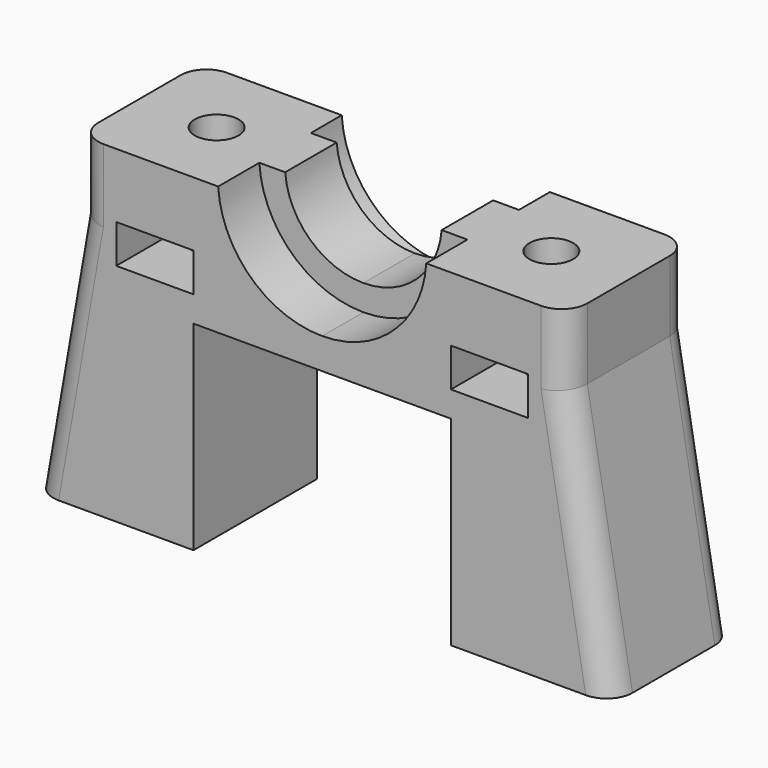
from build123d import *

# Parameters (mm, degrees)
F0_W          = 6
F0_H          = 3
F1_DEPTH      = 6
F2_DEPTH      = 2
F2_DEPTH_BACK = 3
F3_R          = 1.7
F4_DEPTH      = 4.8
F5_R          = 2
F6_R          = 1.7
F7_DEPTH      = 3


with BuildPart() as f1:
    # F0 (on Front) → F1 (new body, symmetric)
    with BuildSketch(Plane.XZ):
        with BuildLine():
            Line((10, 0), (22.5, 0))
            Line((22.5, 0), (18.9995524919, 20.0000000164))
            Line((18.9995524919, 20.0000000164), (18.9995524919, 25.5000000164))
            Line((18.9995524919, 25.5000000164), (8.0836130781, 25.5000000164))
            ThreePointArc((8.0836130781, 25.5000000164), (5.5476302699, 20.0983556377), (0, 17.8999996185))
            Line((0, 17.8999996185), (0, 15.5))
            Line((0, 15.5), (10, 15.5))
            Line((10, 15.5), (10, 0))
        make_face()
        with Locations((12.9995524922, 19.0000000164)):
            Rectangle(F0_W, F0_H, mode=Mode.SUBTRACT)
    extrude(amount=F1_DEPTH, both=True)

    # F0 (on Front) → F2 (join, two sides)
    with BuildSketch(Plane.XZ) as f2_sk:
        with BuildLine():
            ThreePointArc((0, 17.8999996185), (5.5476302699, 20.0983556377), (8.0836130781, 25.5000000164))
            Line((8.0836130781, 25.5000000164), (6.0785524919, 25.5000000164))
            ThreePointArc((6.0785524919, 25.5000000164), (4.1324570431, 21.5134004627), (0, 19.8999996185))
            Line((0, 19.8999996185), (0, 17.8999996185))
        make_face()
    extrude(amount=F2_DEPTH)
    extrude(f2_sk.sketch, amount=-F2_DEPTH_BACK)

    # F3 (on face) → F4 (cut)
    with BuildSketch(Plane.XY.offset(25.5000000164)):
        with Locations((12.9995524919, 0)):
            Circle(F3_R)
    extrude(amount=-F4_DEPTH, mode=Mode.SUBTRACT)

    # F5
    f5_edges = [f1.edges().sort_by_distance(p)[0] for p in [
        (20.749776, 6, 10),
        (18.999552, 6, 22.75),
        (20.749776, -6, 10),
        (18.999552, -6, 22.75),
    ]]
    fillet(f5_edges, radius=F5_R)

    # F6 (on face) → F7 (cut)
    with BuildSketch(Plane.XY.offset(17.5000000164)):
        with Locations((12.9995524922, 0)):
            Circle(F6_R)
    extrude(amount=-F7_DEPTH, mode=Mode.SUBTRACT)

    # F8: F1 across plane


with BuildPart() as f1_1:
    add(f1.part)
    add(f1.part.mirror(Plane.YZ))


solid = f1_1.part
